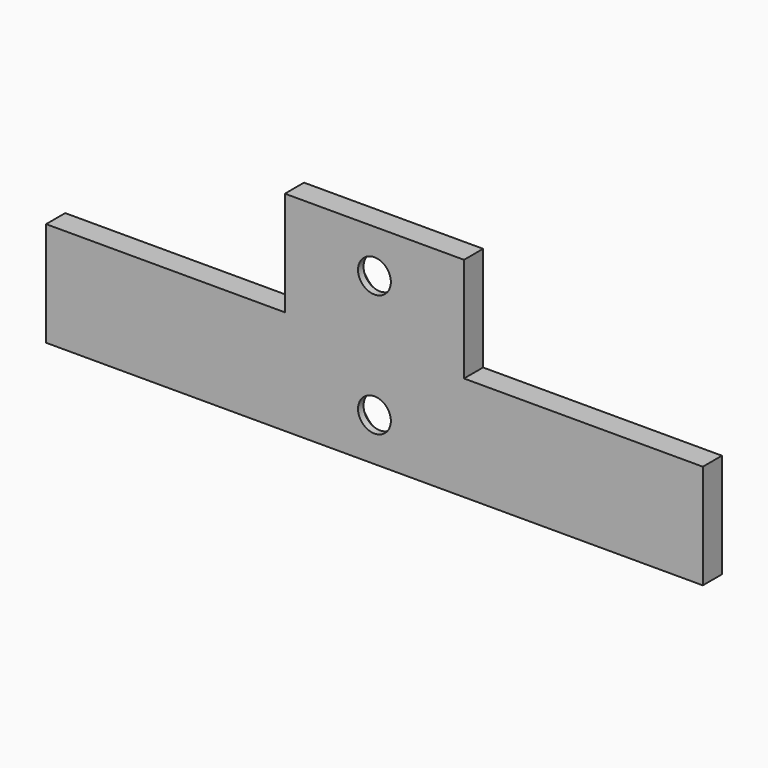
from build123d import *

# Parameters (mm, degrees)
F1_DEPTH       = 4
F2_D           = 5.5
F2_CSINK_D     = 11.2
F2_CSINK_ANGLE = 90


with BuildPart() as f1:
    # F0 (on Front) → F1 (new body)
    with BuildSketch(Plane.XZ):
        Polygon((15, 0), (15, 17.5), (-15, 17.5), (-15, 0), (-55, 0), (-55, -17.5), (55, -17.5), (55, 0), align=None)
    extrude(amount=F1_DEPTH)

    # F2 (through all)
    with Locations(Plane(origin=(0, 0, 0), x_dir=(1, 0, 0), z_dir=(0, 1, 0))):
        with Locations((0, -10.25), (0, 10.25)):
            CounterSinkHole(F2_D / 2, F2_CSINK_D / 2, counter_sink_angle=F2_CSINK_ANGLE)


solid = f1.part
